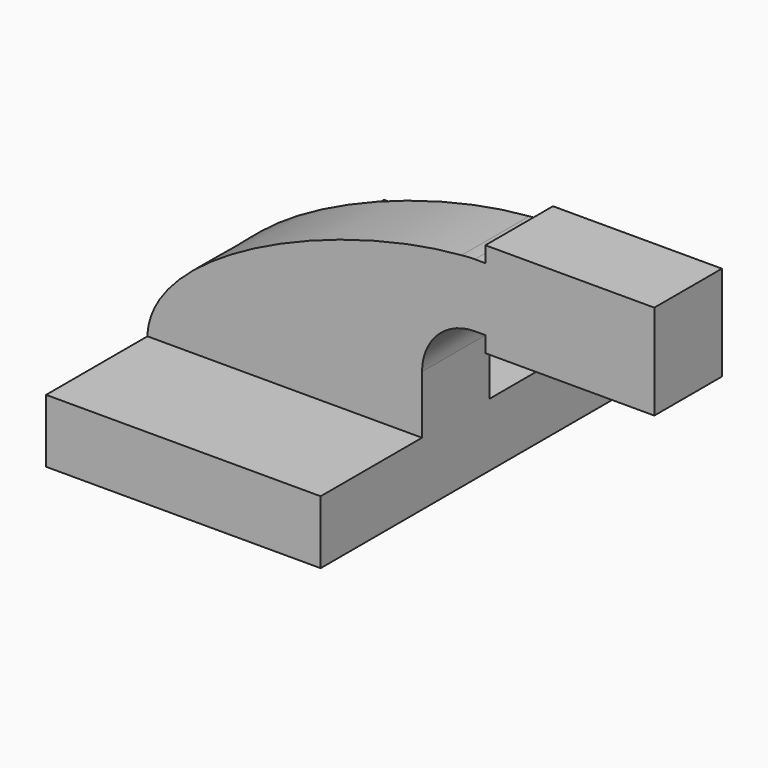
from build123d import *

# Parameters (mm, degrees)
F1_DEPTH = 63.5
F0_W     = 25.4
F0_H     = 19.05
F0_H_2   = 4.7498
F0_H_3   = 4.7752
F2_DEPTH = 25.4


with BuildPart() as f1:
    # F0 (on Front) → F1 (new body, symmetric)
    with BuildSketch(Plane.XZ):
        Polygon((22.225, 9.525), (-41.275, 9.525), (-41.275, -9.525), (41.275, -9.525), (41.275, 9.525), align=None)
    extrude(amount=F1_DEPTH, both=True)

    # F0 (on Front) → F2 (join)
    with BuildSketch(Plane.XZ):
        with BuildLine():
            add(Edge.make_bspline(
                [(53.1596094472, 61.6964881046), (16.1985409417, 58.8323622572), (-40.681488346, 34.7288044556), (-41.275, 9.525)],
                knots=[3.9524583094, 3.9524583094, 3.9524583094, 3.9524583094, 111.5045361635, 111.5045361635, 111.5045361635, 111.5045361635], degree=3))
            Line((-41.275, 9.525), (22.225, 9.525))
            Line((22.225, 9.525), (22.225, 27.0002))
            ThreePointArc((22.225, 27.0002), (31.0816282149, 50.242308714), (53.1596094472, 61.6964881046))
        make_face()
        Polygon((22.225, 9.525), (-41.275, 9.525), (-41.275, -9.525), (41.275, -9.525), (41.275, 9.525), align=None)
        with BuildLine():
            Line((22.225, 27.0002), (22.225, 9.525))
            Line((22.225, 9.525), (41.275, 9.525))
            Line((41.275, 9.525), (41.275, 27.0002))
            ThreePointArc((41.275, 27.0002), (45.9246798487, 38.2255201513), (57.15, 42.8752))
            Line((57.15, 42.8752), (60.325, 42.8752))
            Line((60.325, 42.8752), (60.325, 61.9252))
            Line((60.325, 61.9252), (57.15, 61.9252))
            add(Edge.make_bspline(
                [(57.15, 61.9252), (55.849291913, 61.878313053), (54.5179010326, 61.8017425844), (53.1596094472, 61.6964881046)],
                knots=[0, 0, 0, 0, 3.9524583094, 3.9524583094, 3.9524583094, 3.9524583094], degree=3))
            ThreePointArc((53.1596094472, 61.6964881046), (31.0816282149, 50.242308714), (22.225, 27.0002))
        make_face()
        with BuildLine():
            ThreePointArc((57.15, 61.9252), (55.151530217, 61.8679751445), (53.1596094472, 61.6964881046))
            add(Edge.make_bspline(
                [(57.15, 61.9252), (55.849291913, 61.878313053), (54.5179010326, 61.8017425844), (53.1596094472, 61.6964881046)],
                knots=[0, 0, 0, 0, 3.9524583094, 3.9524583094, 3.9524583094, 3.9524583094], degree=3))
        make_face()
        with Locations((73.025, 52.4002)):
            Rectangle(F0_W, F0_H)
        with Locations((73.025, 64.3001)):
            Rectangle(F0_W, F0_H_2)
        with Locations((73.025, 40.4876)):
            Rectangle(F0_W, F0_H_3)
        Polygon((85.725, 66.675), (85.725, 61.9252), (85.725, 42.8752), (85.725, 38.1), (111.125, 38.1), (111.125, 66.675), align=None)
    extrude(amount=F2_DEPTH)


solid = f1.part
